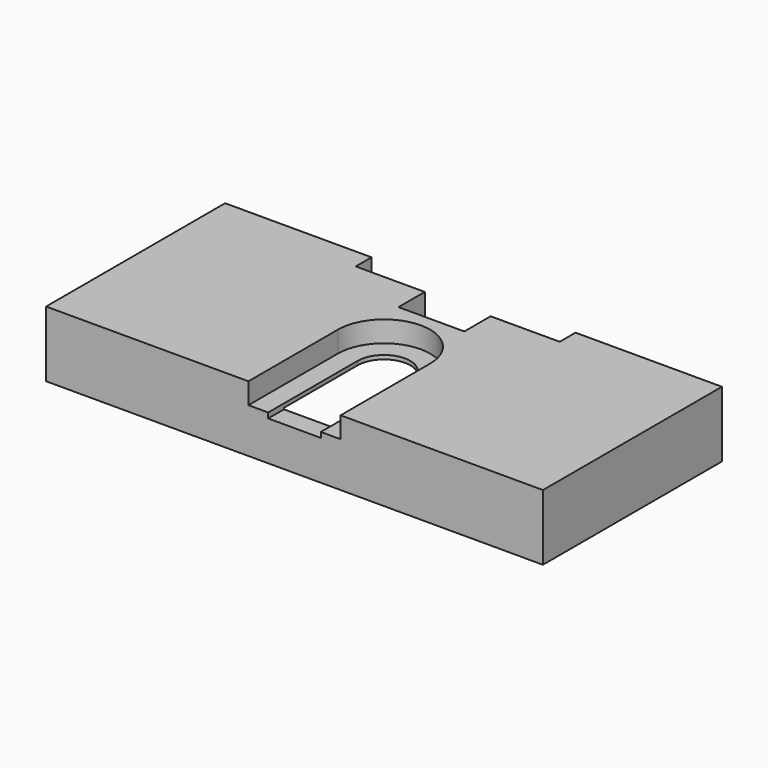
from build123d import *

# Parameters (mm, degrees)
F1_DEPTH = 31
F3_DEPTH = 3
F5_DEPTH = 4
F7_DEPTH = 3.2
F9_DEPTH = 7


with BuildPart() as f1:
    # F0 (on Front) → F1 (new body)
    with BuildSketch(Plane.XZ):
        Polygon((37.75, 0), (-37.75, 0), (-37.75, -10), (-34.75, -10), (-34.75, -4), (-5, -4), (-5, -3.8), (5, -3.8), (5, -4), (34.75, -4), (34.75, -10), (37.75, -10), align=None)
    extrude(amount=F1_DEPTH)

    # F2 (on face) → F3 (join)
    with BuildSketch(Plane.XZ.offset(31)):
        Polygon((37.75, 0), (-37.75, 0), (-37.75, -10), (-34.75, -10), (-34.75, -4), (-5, -4), (-5, -3.8), (5, -3.8), (5, -4), (34.75, -4), (34.75, -10), (37.75, -10), align=None)
        Polygon((37.75, 0), (-37.75, 0), (-37.75, -10), (-34.75, -10), (-34.75, -4), (-5, -4), (-5, -3.8), (5, -3.8), (5, -4), (34.75, -4), (34.75, -10), (37.75, -10), align=None)
        Polygon((-34.75, -4), (-34.75, -10), (34.75, -10), (34.75, -4), (5, -4), (5, -3.8), (-5, -3.8), (-5, -4), align=None)
    extrude(amount=F3_DEPTH)

    # F4 (on face) → F5 (cut)
    with BuildSketch(Plane.XY):
        with BuildLine():
            Line((-4, -17), (-4, -34))
            Line((-4, -34), (4, -34))
            Line((4, -34), (4, -17))
            ThreePointArc((4, -17), (0, -13), (-4, -17))
        make_face()
        Polygon((15.5, 0), (-15.5, 0), (-15.5, -3), (-5, -3), (-5, -8), (5, -8), (5, -3), (15.5, -3), align=None)
    extrude(amount=-F5_DEPTH, mode=Mode.SUBTRACT)

    # F6 (on face) → F7 (cut)
    with BuildSketch(Plane.XY):
        with BuildLine():
            Line((-7, -17), (-7, -34))
            Line((-7, -34), (-4, -34))
            Line((-4, -34), (-4, -17))
            ThreePointArc((-4, -17), (0, -13), (4, -17))
            Line((4, -17), (4, -34))
            Line((4, -34), (7, -34))
            Line((7, -34), (7, -17))
            ThreePointArc((7, -17), (0, -10), (-7, -17))
        make_face()
    extrude(amount=-F7_DEPTH, mode=Mode.SUBTRACT)

    # F8 (on face) → F9 (cut)
    with BuildSketch(Plane(origin=(0, 0, -10), x_dir=(1, 0, 0), z_dir=(0, 0, -1))):
        with BuildLine():
            Line((-34.75, 31), (-32.75, 31))
            ThreePointArc((-32.75, 31), (-36.1642135624, 32.4142135624), (-34.75, 29))
            Line((-34.75, 29), (-34.75, 31))
        make_face()
        with BuildLine():
            ThreePointArc((-34.75, 29), (-33.3357864376, 29.5857864376), (-32.75, 31))
            Line((-32.75, 31), (-34.75, 31))
            Line((-34.75, 31), (-34.75, 29))
        make_face()
        with BuildLine():
            ThreePointArc((36.75, 31), (34.75, 33), (32.75, 31))
            Line((32.75, 31), (34.75, 31))
            Line((34.75, 31), (34.75, 29))
            ThreePointArc((34.75, 29), (36.1642135624, 29.5857864376), (36.75, 31))
        make_face()
        with BuildLine():
            Line((34.75, 31), (32.75, 31))
            ThreePointArc((32.75, 31), (33.3357864376, 29.5857864376), (34.75, 29))
            Line((34.75, 29), (34.75, 31))
        make_face()
    extrude(amount=-F9_DEPTH, mode=Mode.SUBTRACT)


solid = f1.part
